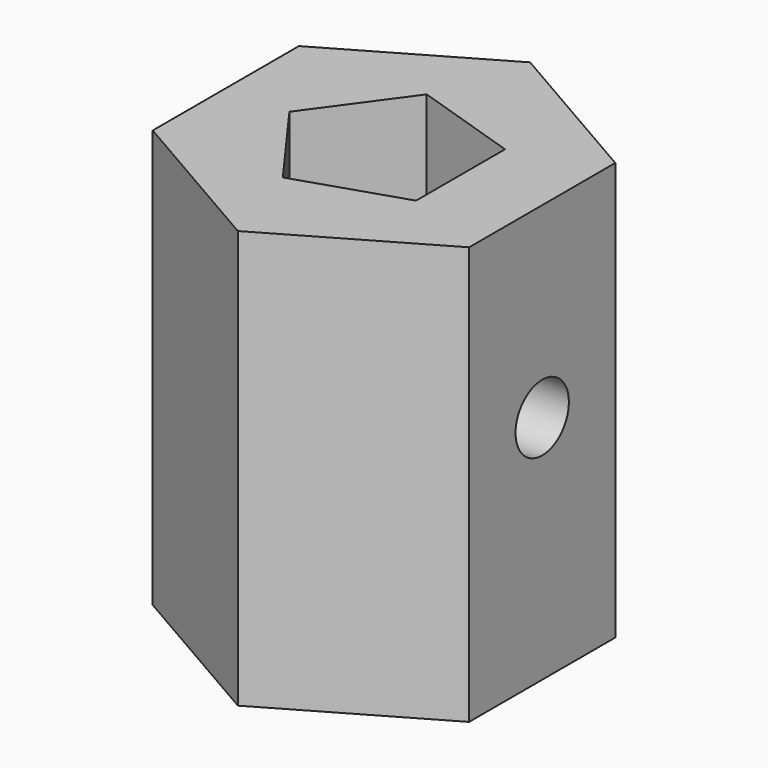
from build123d import *

# Parameters (mm, degrees)
F1_DEPTH = 125
F2_R     = 9.973373
F3_DEPTH = 25


with BuildPart() as f1:
    # F0 (on Top) → F1 (new body)
    with BuildSketch(Plane.XY):
        Polygon((47.328351, 27.325036), (0, 54.650072), (-47.328351, 27.325036), (-47.328351, -27.325036), (0, -54.650072), (47.328351, -27.325036), align=None)
        Polygon((-8.745467, -26.91578), (-28.300926, 0), (-8.745467, 26.91578), (22.89593, 16.634867), (22.89593, -16.634867), align=None, mode=Mode.SUBTRACT)
    extrude(amount=F1_DEPTH)

    # F2 (on face) → F3 (cut)
    with BuildSketch(Plane.YZ.offset(47.328351)):
        with Locations((0, 69.05473)):
            Circle(F2_R)
    extrude(amount=-F3_DEPTH, mode=Mode.SUBTRACT)


solid = f1.part
